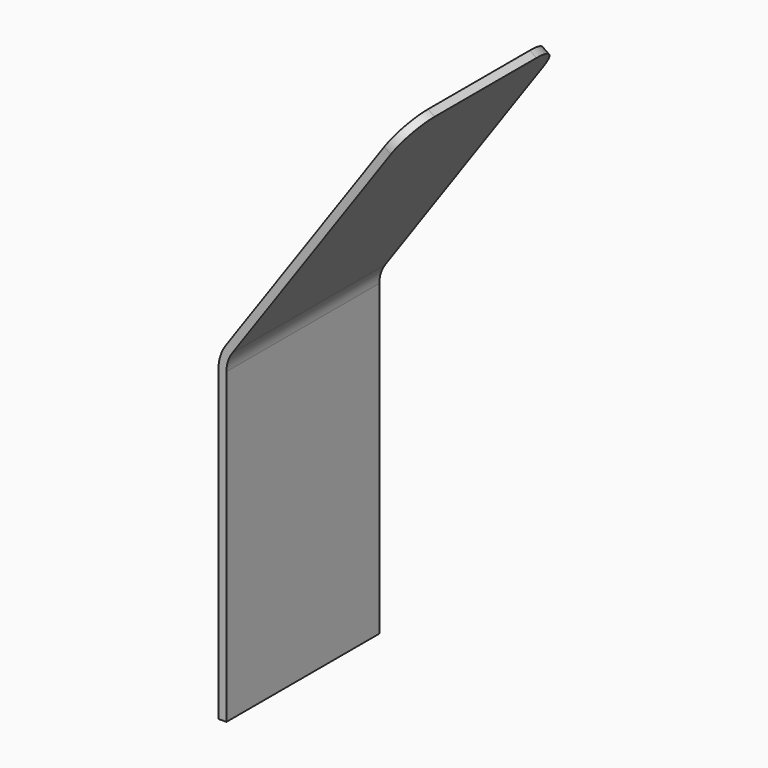
from build123d import *

# Parameters (mm, degrees)
F1_DEPTH = 38.1
F2_R     = 6.35


with BuildPart() as f1:
    # F0 (on Front) → F1 (new body)
    with BuildSketch(Plane.XZ):
        with BuildLine():
            Line((0, -63.5), (0, -2.002147))
            ThreePointArc((0, -2.002147), (0.293897, -0.092665), (1.148385, 1.640063))
            Line((1.148385, 1.640063), (36.422104, 52.016155))
            Line((36.422104, 52.016155), (35.1217, 52.926707))
            Line((35.1217, 52.926707), (-0.152019, 2.550616))
            ThreePointArc((-0.152019, 2.550616), (-1.220128, 0.384705), (-1.5875, -2.002147))
            Line((-1.5875, -2.002147), (-1.5875, -63.5))
            Line((-1.5875, -63.5), (0, -63.5))
        make_face()
    extrude(amount=F1_DEPTH)

    # F2
    f2_edges = [f1.edges().sort_by_distance(p)[0] for p in [
        (35.771902, -38.1, 52.471431),
        (35.771902, 0, 52.471431),
    ]]
    fillet(f2_edges, radius=F2_R)


solid = f1.part
